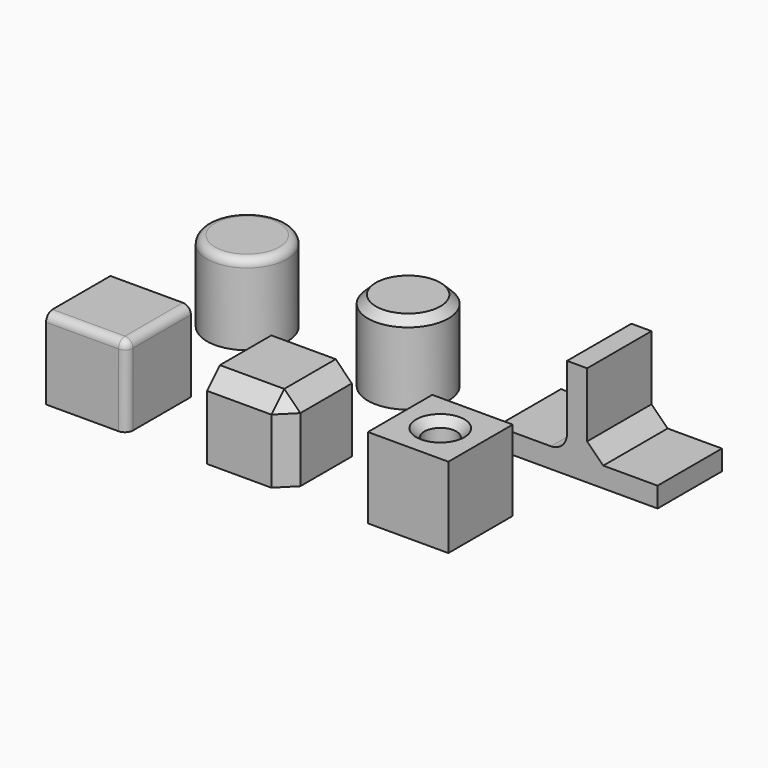
from build123d import *

# Parameters (mm, degrees)
BOX_W             = 10
BOX_H             = 10
BOX_DEPTH         = 10
FILLET_R          = 1
BOX001_W          = 10
BOX001_H          = 10
BOX001_DEPTH      = 10
CHAMFER_SIZE      = 2
CYLINDER_R        = 2
CYLINDER_DEPTH    = 10
BOX002_W          = 10
BOX002_H          = 10
BOX002_DEPTH      = 10
CHAMFER001_SIZE   = 1
CYLINDER001_R     = 5
CYLINDER001_DEPTH = 10
FILLET001_R       = 1
CYLINDER002_R     = 5
CYLINDER002_DEPTH = 10
CHAMFER002_SIZE   = 1
BOX003_W          = 20
BOX003_H          = 10
BOX003_DEPTH      = 2.5
BOX004_W          = 2.5
BOX004_H          = 10
BOX004_DEPTH      = 12.5
CHAMFER003_SIZE   = 2
FILLET002_R       = 2


with BuildPart() as fillet_body:
    # Box → Box (new body)
    with BuildSketch(Plane.XY):
        with Locations((5, 5)):
            Rectangle(BOX_W, BOX_H)
    extrude(amount=BOX_DEPTH)

    # Fillet
    fillet_edges = [fillet_body.edges().sort_by_distance(p)[0] for p in [
        (10, 0, 5),
        (10, 5, 10),
        (5, 0, 10),
    ]]
    fillet(fillet_edges, radius=FILLET_R)


with BuildPart() as chamfer_body:
    # Box001 → Box001 (new body)
    with BuildSketch(Plane(origin=(20, 0, 0), x_dir=(1, 0, 0), z_dir=(0, 0, 1))):
        with Locations((5, 5)):
            Rectangle(BOX001_W, BOX001_H)
    extrude(amount=BOX001_DEPTH)

    # Chamfer
    chamfer_edges = [chamfer_body.edges().sort_by_distance(p)[0] for p in [
        (30, 0, 5),
        (30, 5, 10),
        (25, 0, 10),
    ]]
    chamfer(chamfer_edges, length=CHAMFER_SIZE)


with BuildPart() as cylinder:
    # Cylinder → Cylinder (new body)
    with BuildSketch(Plane(origin=(45, 5, 0), x_dir=(1, 0, 0), z_dir=(0, 0, 1))):
        Circle(CYLINDER_R)
    extrude(amount=CYLINDER_DEPTH)


with BuildPart() as chamfer001:
    # Box002 → Box002 (new body)
    with BuildSketch(Plane(origin=(40, 0, 0), x_dir=(1, 0, 0), z_dir=(0, 0, 1))):
        with Locations((5, 5)):
            Rectangle(BOX002_W, BOX002_H)
    extrude(amount=BOX002_DEPTH)

    # Cut: cut Cylinder
    add(cylinder.part, mode=Mode.SUBTRACT)

    # Chamfer001
    chamfer001_edges = [chamfer001.edges().sort_by_distance(p)[0] for p in [
        (43, 5, 10),
    ]]
    chamfer(chamfer001_edges, length=CHAMFER001_SIZE)


with BuildPart() as fillet001:
    # Cylinder001 → Cylinder001 (new body)
    with BuildSketch(Plane(origin=(5, 25, 0), x_dir=(1, 0, 0), z_dir=(0, 0, 1))):
        Circle(CYLINDER001_R)
    extrude(amount=CYLINDER001_DEPTH)

    # Fillet001
    fillet001_edges = [fillet001.edges().sort_by_distance(p)[0] for p in [
        (0, 25, 10),
    ]]
    fillet(fillet001_edges, radius=FILLET001_R)


with BuildPart() as chamfer002:
    # Cylinder002 → Cylinder002 (new body)
    with BuildSketch(Plane(origin=(25, 25, 0), x_dir=(1, 0, 0), z_dir=(0, 0, 1))):
        Circle(CYLINDER002_R)
    extrude(amount=CYLINDER002_DEPTH)

    # Chamfer002
    chamfer002_edges = [chamfer002.edges().sort_by_distance(p)[0] for p in [
        (20, 25, 10),
    ]]
    chamfer(chamfer002_edges, length=CHAMFER002_SIZE)


with BuildPart() as cube003:
    # Box003 → Box003 (new body)
    with BuildSketch(Plane(origin=(40, 20, 0), x_dir=(1, 0, 0), z_dir=(0, 0, 1))):
        with Locations((10, 5)):
            Rectangle(BOX003_W, BOX003_H)
    extrude(amount=BOX003_DEPTH)


with BuildPart() as fillet002:
    # Box004 → Box004 (new body)
    with BuildSketch(Plane(origin=(48.75, 20, 0), x_dir=(1, 0, 0), z_dir=(0, 0, 1))):
        with Locations((1.25, 5)):
            Rectangle(BOX004_W, BOX004_H)
    extrude(amount=BOX004_DEPTH)

    # Fusion: union Cube003
    add(cube003.part)

    # Chamfer003
    chamfer003_edges = [fillet002.edges().sort_by_distance(p)[0] for p in [
        (51.25, 25, 2.5),
    ]]
    chamfer(chamfer003_edges, length=CHAMFER003_SIZE)

    # Fillet002
    fillet002_edges = [fillet002.edges().sort_by_distance(p)[0] for p in [
        (48.75, 25, 2.5),
    ]]
    fillet(fillet002_edges, radius=FILLET002_R)


solid = Compound([fillet_body.part, chamfer_body.part, chamfer001.part, fillet001.part, chamfer002.part, fillet002.part])
